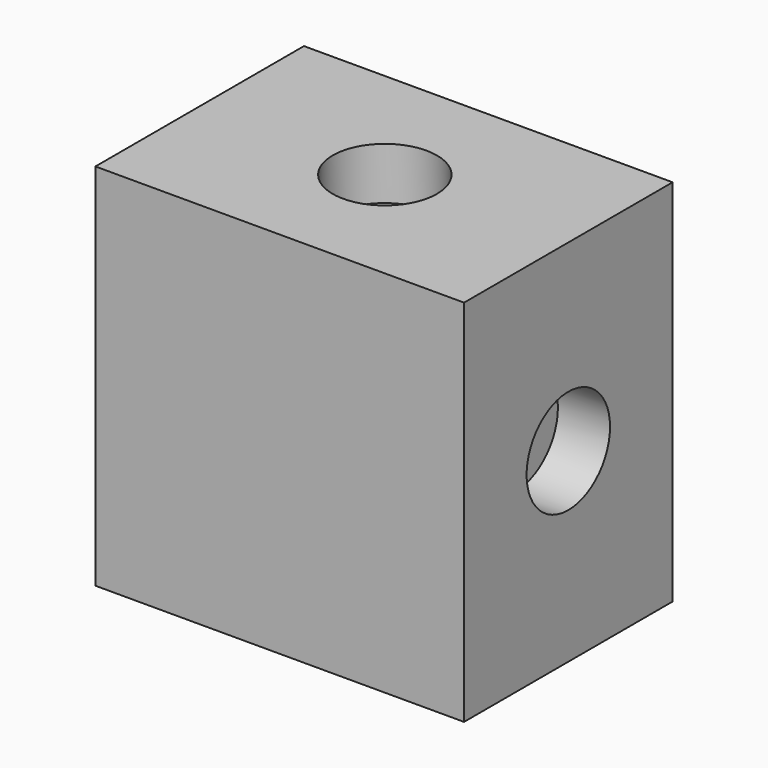
from build123d import *

# Parameters (mm, degrees)
F0_W     = 4.4901358
F0_H     = 4.4958
F1_DEPTH = 3.175
F2_R     = 0.635
F3_DEPTH = 0.635
F4_R     = 0.635
F5_DEPTH = 0.635
F6_R     = 0.635
F7_DEPTH = 0.635


with BuildPart() as f1:
    # F0 (on Front) → F1 (new body)
    with BuildSketch(Plane.XZ):
        with Locations((-12.2093705867, 14.0822748512)):
            Rectangle(F0_W, F0_H)
    extrude(amount=F1_DEPTH)

    # F2 (on face) → F3 (cut)
    with BuildSketch(Plane.YZ.offset(-9.9643026867)):
        with Locations((-1.5875, 14.0949748512)):
            Circle(F2_R)
    extrude(amount=-F3_DEPTH, mode=Mode.SUBTRACT)

    # F4 (on face) → F5 (cut)
    with BuildSketch(Plane(origin=(-14.4544384867, 0, 0), x_dir=(0, -1, 0), z_dir=(-1, 0, 0))):
        with Locations((1.5875, 14.0949748512)):
            Circle(F4_R)
    extrude(amount=-F5_DEPTH, mode=Mode.SUBTRACT)

    # F6 (on face) → F7 (cut)
    with BuildSketch(Plane.XY.offset(16.3301748512)):
        with Locations((-12.1995026867, -1.5875)):
            Circle(F6_R)
    extrude(amount=-F7_DEPTH, mode=Mode.SUBTRACT)


solid = f1.part
